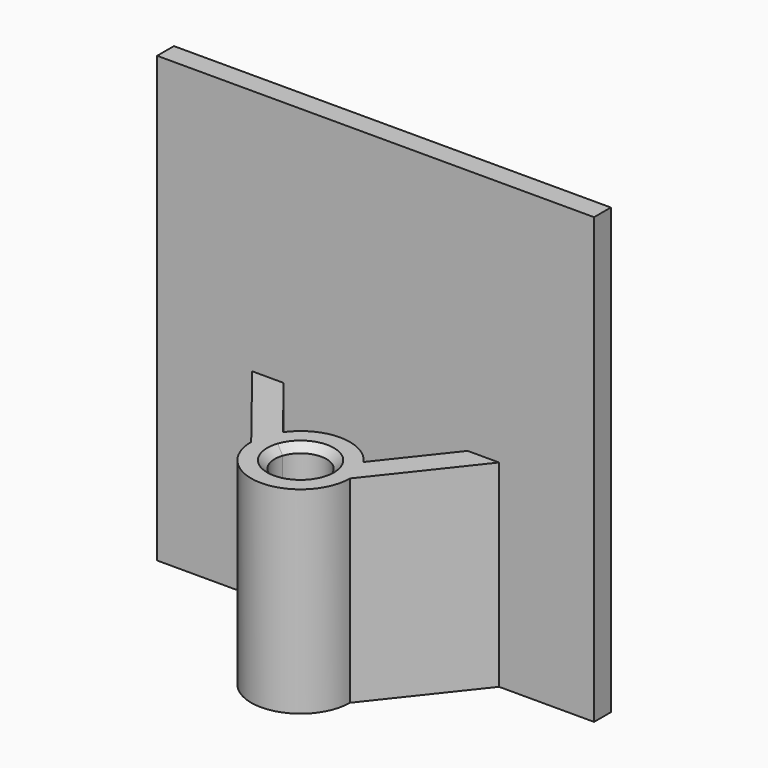
from build123d import *

# Parameters (mm, degrees)
F1_DEPTH = 36
F2_DEPTH = 16
F3_SIZE  = 0.6


with BuildPart() as f1:
    # F0 (on Top) → F1 (new body)
    with BuildSketch(Plane.XY):
        Polygon((-7.451849, -0.85), (7.451849, -0.85), (10, -0.85), (17.7, -0.85), (17.7, 0.85), (-17.7, 0.85), (-17.7, -0.85), (-10, -0.85), align=None)
    extrude(amount=F1_DEPTH)

    # F0 (on Top) → F2 (join)
    with BuildSketch(Plane.XY):
        with BuildLine():
            ThreePointArc((-4, -8.45), (-3.813206, -7.241918), (-3.270269, -6.146668))
            Line((-3.270269, -6.146668), (-7.451849, -0.85))
            Line((-7.451849, -0.85), (-10, -0.85))
            Line((-10, -0.85), (-4, -8.45))
        make_face()
        with BuildLine():
            Line((7.451849, -0.85), (3.270269, -6.146668))
            ThreePointArc((3.270269, -6.146668), (3.813206, -7.241918), (4, -8.45))
            Line((4, -8.45), (10, -0.85))
            Line((10, -0.85), (7.451849, -0.85))
        make_face()
        with BuildLine():
            ThreePointArc((-1.987411, -7.771621), (0, -6.35), (1.987411, -7.771621))
            Line((1.987411, -7.771621), (3.270269, -6.146668))
            ThreePointArc((3.270269, -6.146668), (0, -4.45), (-3.270269, -6.146668))
            Line((-3.270269, -6.146668), (-1.987411, -7.771621))
        make_face()
        with BuildLine():
            ThreePointArc((1.987411, -7.771621), (2.071662, -8.106171), (2.1, -8.45))
            ThreePointArc((2.1, -8.45), (-0.343829, -10.521662), (-1.987411, -7.771621))
            Line((-1.987411, -7.771621), (-3.270269, -6.146668))
            ThreePointArc((-3.270269, -6.146668), (-3.813206, -7.241918), (-4, -8.45))
            ThreePointArc((-4, -8.45), (0, -12.45), (4, -8.45))
            ThreePointArc((4, -8.45), (3.813206, -7.241918), (3.270269, -6.146668))
            Line((3.270269, -6.146668), (1.987411, -7.771621))
        make_face()
    extrude(amount=F2_DEPTH)

    # F3
    f3_edges = [f1.edges().sort_by_distance(p)[0] for p in [
        (1.987411, -9.128379, 0),
        (1.987411, -9.128379, 16),
    ]]
    chamfer(f3_edges, length=F3_SIZE)


solid = f1.part
